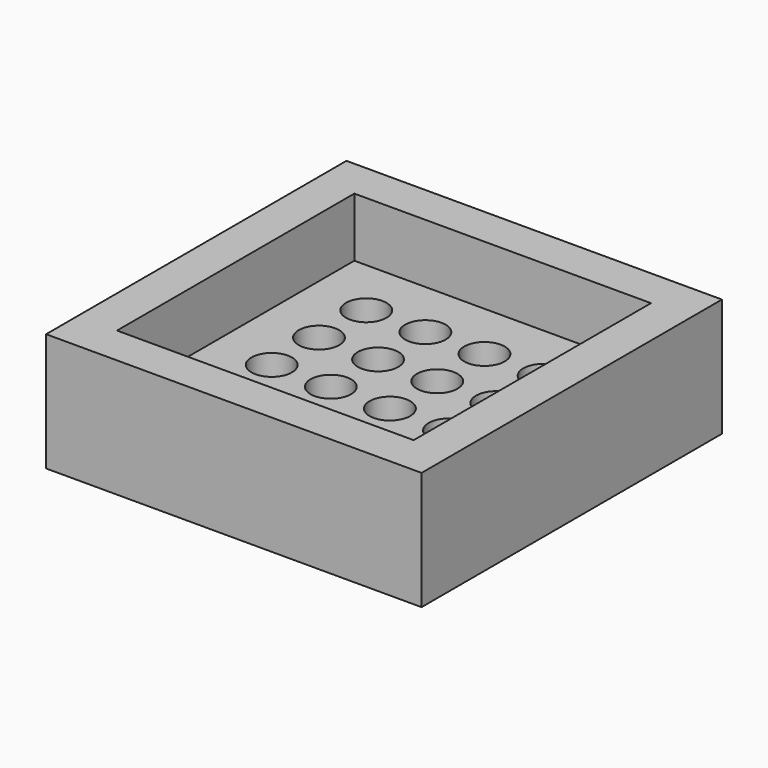
from build123d import *

# Parameters (mm, degrees)
F0_W     = 95.286613
F0_H     = 95.286613
F0_R     = 5.143306
F1_DEPTH = 15
F2_W     = 95.286613
F2_H     = 95.286613
F2_W_2   = 75.286613
F2_H_2   = 75.286613
F3_DEPTH = 15


with BuildPart() as f1:
    # F0 (on Top) → F1 (new body)
    with BuildSketch(Plane.XY):
        with Locations((47.643307, 47.643307)):
            Rectangle(F0_W, F0_H)
        with Locations((25.143306, 25.143306)):
            Circle(F0_R, mode=Mode.SUBTRACT)
        with Locations((40.143306, 25.143306)):
            Circle(F0_R, mode=Mode.SUBTRACT)
        with Locations((25.143306, 40.143306)):
            Circle(F0_R, mode=Mode.SUBTRACT)
        with Locations((40.143306, 40.143306)):
            Circle(F0_R, mode=Mode.SUBTRACT)
        with Locations((55.143306, 25.143306)):
            Circle(F0_R, mode=Mode.SUBTRACT)
        with Locations((70.143306, 25.143306)):
            Circle(F0_R, mode=Mode.SUBTRACT)
        with Locations((55.143306, 40.143306)):
            Circle(F0_R, mode=Mode.SUBTRACT)
        with Locations((70.143306, 40.143306)):
            Circle(F0_R, mode=Mode.SUBTRACT)
        with Locations((25.143306, 55.143306)):
            Circle(F0_R, mode=Mode.SUBTRACT)
        with Locations((40.143306, 55.143306)):
            Circle(F0_R, mode=Mode.SUBTRACT)
        with Locations((25.143306, 70.143306)):
            Circle(F0_R, mode=Mode.SUBTRACT)
        with Locations((40.143306, 70.143306)):
            Circle(F0_R, mode=Mode.SUBTRACT)
        with Locations((55.143306, 55.143306)):
            Circle(F0_R, mode=Mode.SUBTRACT)
        with Locations((70.143306, 55.143306)):
            Circle(F0_R, mode=Mode.SUBTRACT)
        with Locations((55.143306, 70.143306)):
            Circle(F0_R, mode=Mode.SUBTRACT)
        with Locations((70.143306, 70.143306)):
            Circle(F0_R, mode=Mode.SUBTRACT)
    extrude(amount=F1_DEPTH)

    # F2 (on face) → F3 (join)
    with BuildSketch(Plane.XY.offset(15)):
        with Locations((47.643307, 47.643307)):
            Rectangle(F2_W, F2_H)
        with Locations((47.643307, 47.643307)):
            Rectangle(F2_W_2, F2_H_2, mode=Mode.SUBTRACT)
    extrude(amount=F3_DEPTH)


solid = f1.part
